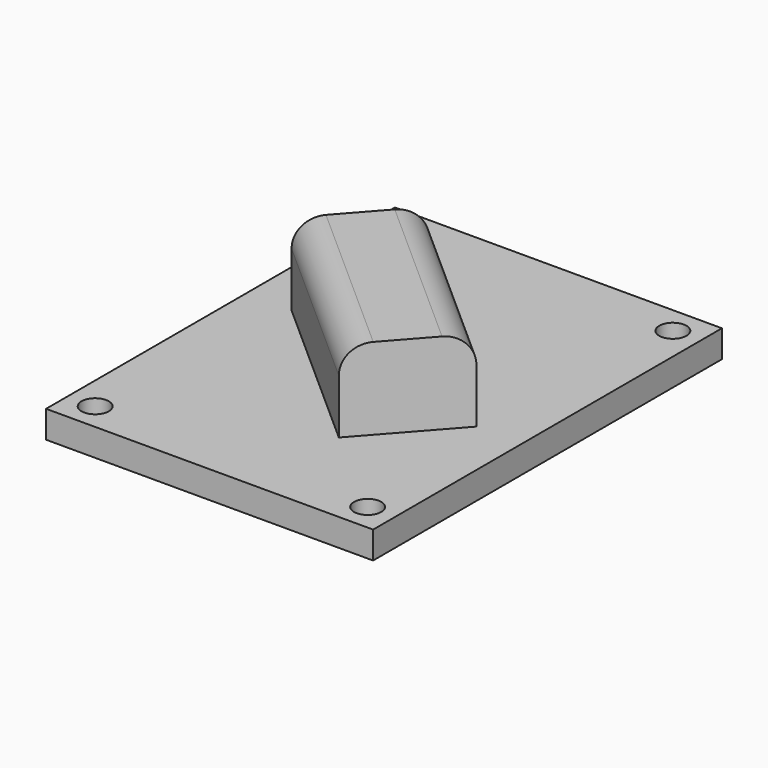
from build123d import *

# Parameters (mm, degrees)
F1_DEPTH = 40
F0_W     = 120
F0_H     = 160
F0_R     = 5
F2_DEPTH = 10
F3_R     = 10


with BuildPart() as f1:
    # F0 (on Top) → F1 (new body)
    with BuildSketch(Plane.XY):
        Polygon((16.638367, -41.511019), (43.191836, -11.595918), (-16.638367, 41.511019), (-43.191836, 11.595918), align=None)
    extrude(amount=F1_DEPTH)

    # F0 (on Top) → F2 (join)
    with BuildSketch(Plane.XY):
        Rectangle(F0_W, F0_H)
        with Locations((-50, -70)):
            Circle(F0_R, mode=Mode.SUBTRACT)
        with Locations((50, -70)):
            Circle(F0_R, mode=Mode.SUBTRACT)
        Polygon((-16.638367, 41.511019), (43.191836, -11.595918), (16.638367, -41.511019), (-43.191836, 11.595918), align=None, mode=Mode.SUBTRACT)
        with Locations((-50, 70)):
            Circle(F0_R, mode=Mode.SUBTRACT)
        with Locations((50, 70)):
            Circle(F0_R, mode=Mode.SUBTRACT)
    extrude(amount=F2_DEPTH)

    # F3
    f3_edges = [f1.edges().sort_by_distance(p)[0] for p in [
        (13.276734, 14.957551, 40),
        (-13.276734, -14.957551, 40),
    ]]
    fillet(f3_edges, radius=F3_R)


solid = f1.part
